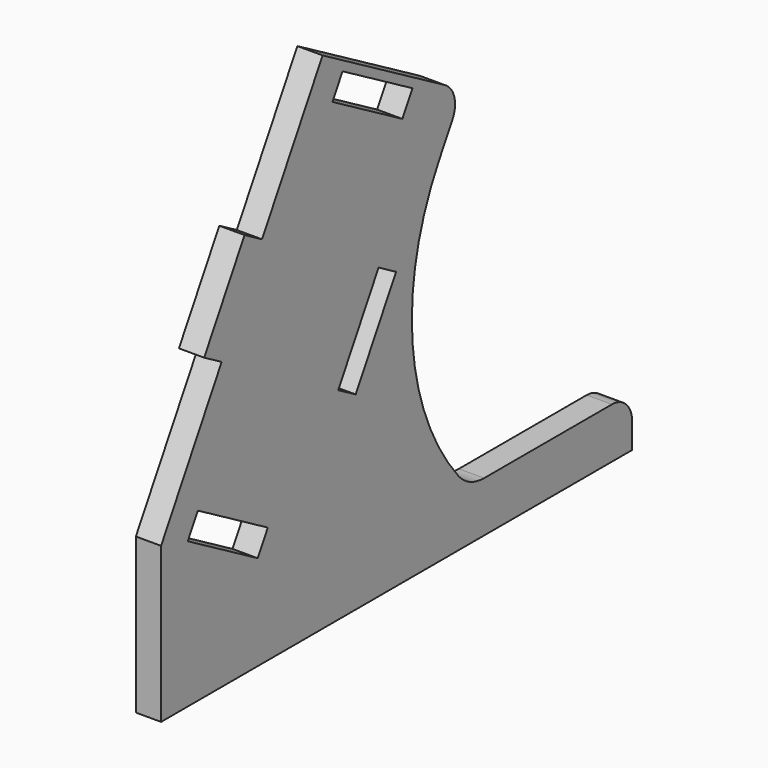
from build123d import *

# Parameters (mm, degrees)
F1_DEPTH = 3


with BuildPart() as f1:
    # F0 (on Right) → F1 (new body)
    with BuildSketch(Plane.YZ):
        with BuildLine():
            Line((9, 34.019238), (0, 18.430781))
            Line((0, 18.430781), (0, 0))
            Line((0, 0), (70, 0))
            Line((70, 0), (70, 3))
            ThreePointArc((70, 3), (69.12132, 5.12132), (67, 6))
            Line((67, 6), (48.00438, 6))
            ThreePointArc((48.00438, 6), (45.875744, 6.475742), (44.152181, 7.812436))
            ThreePointArc((44.152181, 7.812436), (37.370731, 24.425762), (41.28461, 41.937822))
            Line((41.28461, 41.937822), (43.28461, 45.401924))
            ThreePointArc((43.28461, 45.401924), (43.584311, 47.678381), (42.186533, 49.5))
            Line((42.186533, 49.5), (24, 60))
            Line((24, 60), (15, 44.411543))
            Line((15, 44.411543), (12.401924, 45.911543))
            Line((12.401924, 45.911543), (6.401924, 35.519238))
            Line((6.401924, 35.519238), (9, 34.019238))
        make_face()
        Polygon((3.964102, 17.296806), (5.464102, 19.894882), (15.856406, 13.894882), (14.356406, 11.296806), align=None, mode=Mode.SUBTRACT)
        Polygon((26.320508, 24.019238), (32.320508, 34.411543), (34.918584, 32.911543), (28.918584, 22.519238), align=None, mode=Mode.SUBTRACT)
        Polygon((25.464102, 54.535898), (26.964102, 57.133975), (37.356406, 51.133975), (35.856406, 48.535898), align=None, mode=Mode.SUBTRACT)
    extrude(amount=F1_DEPTH)


solid = f1.part
